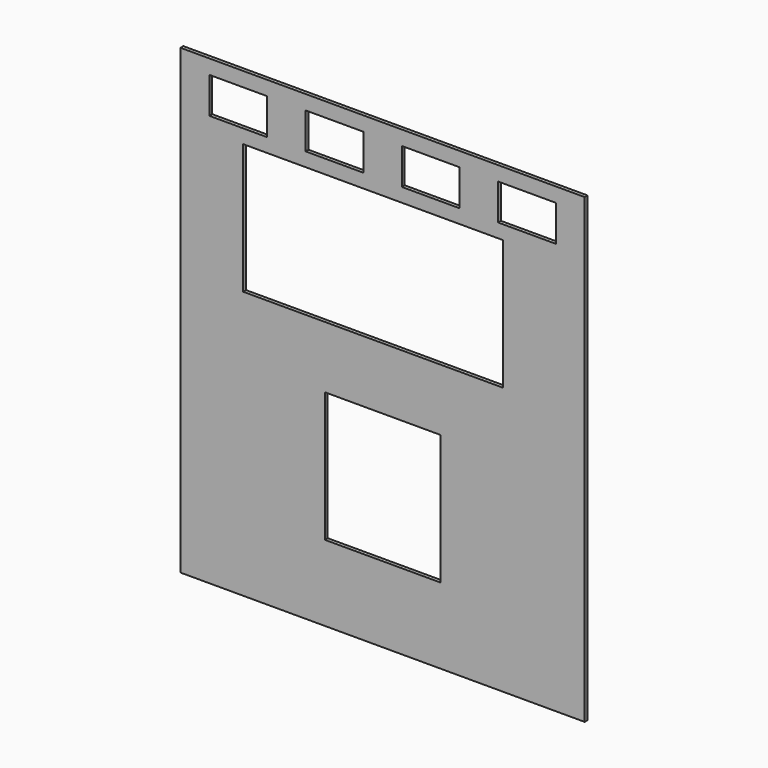
from build123d import *

# Parameters (mm, degrees)
SKETCH023_W            = 1422.4
SKETCH023_H            = 1625.6
SKETCH023_W_2          = 406.4
SKETCH023_H_2          = 457.2
SKETCH023_W_3          = 914.4
PAD004_DEPTH           = 12.7
SKETCH024_W            = 203.2
SKETCH024_H            = 127
POCKET019_DEPTH        = 12.7010000028
LINEARPATTERN001_COUNT = 4
LINEARPATTERN001_PITCH = 338.6666666667


with BuildPart() as part:
    # Sketch023 → Pad004 (new body)
    with BuildSketch(Plane(origin=(0, 1524, 0), x_dir=(1, 0, 0), z_dir=(0, -1, 0))):
        with Locations((762, 1358.9)):
            Rectangle(SKETCH023_W, SKETCH023_H)
        with Locations((762, 1041.4)):
            Rectangle(SKETCH023_W_2, SKETCH023_H_2, mode=Mode.SUBTRACT)
        with Locations((728.768672, 1716.358264)):
            Rectangle(SKETCH023_W_3, SKETCH023_H_2, mode=Mode.SUBTRACT)
    extrude(amount=-PAD004_DEPTH)

    # Sketch024 → Pocket019 (cut, through all)
    with BuildSketch(Plane(origin=(0, 1536.7, 0), x_dir=(1, 0, 0), z_dir=(0, 1, 0))):
        with Locations((254, -2057.4)):
            Rectangle(SKETCH024_W, SKETCH024_H)
    pocket019 = extrude(amount=-POCKET019_DEPTH, mode=Mode.SUBTRACT)

    # LinearPattern001: Pocket019 ×4
    with Locations(*[(i * LINEARPATTERN001_PITCH, 0, 0) for i in range(1, LINEARPATTERN001_COUNT)]):
        add(pocket019, mode=Mode.SUBTRACT)


solid = part.part
